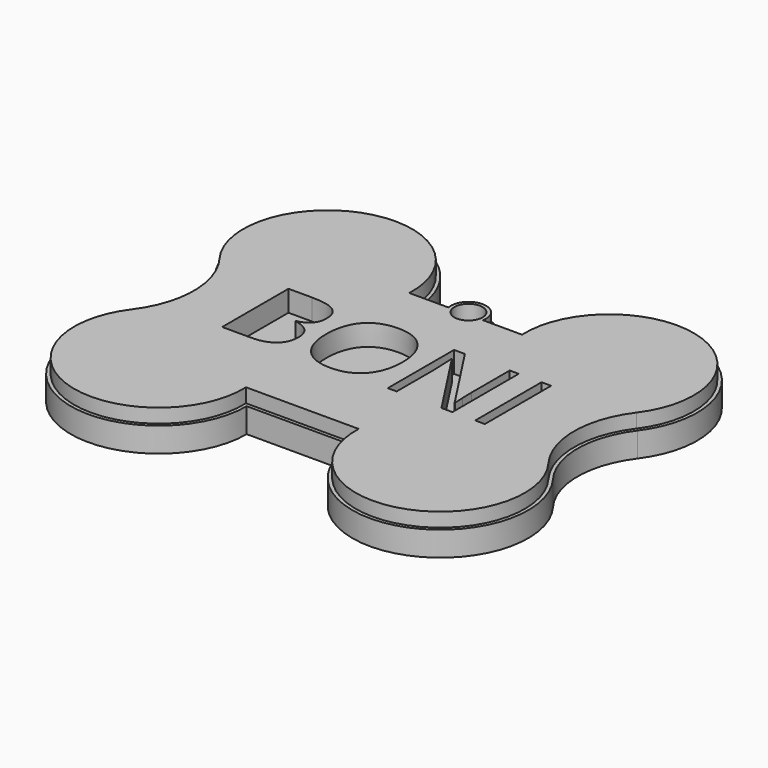
from build123d import *

# Parameters (mm, degrees)
F0_R     = 2
F1_DEPTH = 3.5
F2_R     = 2
F3_DEPTH = 1
F4_W     = 1.3676754668
F4_H     = 11.7681905988
F4_R     = 2
F5_DEPTH = 3


with BuildPart() as f1:
    # F0 (on Top) → F1 (new body)
    with BuildSketch(Plane.XY):
        with BuildLine():
            Line((27, 30), (22.5, 30))
            ThreePointArc((22.5, 30), (6.0471529248, 41.8585412256), (0, 22.5))
            ThreePointArc((0, 22.5), (2.5, 15), (0, 7.5))
            ThreePointArc((0, 7.5), (6.0471529248, -11.8585412256), (22.5, 0))
            Line((22.5, 0), (37.5, 0))
            ThreePointArc((37.5, 0), (53.9528470752, -11.8585412256), (60, 7.5))
            ThreePointArc((60, 7.5), (57.5, 15), (60, 22.5))
            ThreePointArc((60, 22.5), (53.9528470752, 41.8585412256), (37.5, 30))
            Line((37.5, 30), (33, 30))
            ThreePointArc((33, 30), (30, 33), (27, 30))
        make_face()
        with Locations((30, 30)):
            Circle(F0_R, mode=Mode.SUBTRACT)
    extrude(amount=F1_DEPTH)

    # F2 (on face) → F3 (cut)
    with BuildSketch(Plane.XY.offset(3.5)):
        with BuildLine():
            Line((21.9895788083, 0.5), (38.0104211917, 0.5))
            ThreePointArc((38.0104211917, 0.5), (53.5566869022, -11.4608018166), (59.6, 7.2))
            ThreePointArc((59.6, 7.2), (57, 15), (59.6, 22.8))
            ThreePointArc((59.6, 22.8), (53.5566869022, 41.4608018166), (38.0104211917, 29.5))
            Line((38.0104211917, 29.5), (32.4494897428, 29.5))
            ThreePointArc((32.4494897428, 29.5), (30, 32.5), (27.5505102572, 29.5))
            Line((27.5505102572, 29.5), (21.9895788083, 29.5))
            ThreePointArc((21.9895788083, 29.5), (6.4433130978, 41.4608018166), (0.4, 22.8))
            ThreePointArc((0.4, 22.8), (3, 15), (0.4, 7.2))
            ThreePointArc((0.4, 7.2), (6.4433130978, -11.4608018166), (21.9895788083, 0.5))
        make_face()
        with Locations((30, 30)):
            Circle(F2_R, mode=Mode.SUBTRACT)
    extrude(amount=-F3_DEPTH, mode=Mode.SUBTRACT)

    # F4 (on face) → F5 (join)
    with BuildSketch(Plane.XY.offset(2.5)):
        with BuildLine():
            ThreePointArc((0.4, 7.2), (6.4433130978, -11.4608018166), (21.9895788083, 0.5))
            Line((21.9895788083, 0.5), (38.0104211917, 0.5))
            ThreePointArc((38.0104211917, 0.5), (53.5566869022, -11.4608018166), (59.6, 7.2))
            ThreePointArc((59.6, 7.2), (57, 15), (59.6, 22.8))
            ThreePointArc((59.6, 22.8), (53.5566869022, 41.4608018166), (38.0104211917, 29.5))
            Line((38.0104211917, 29.5), (32.4494897428, 29.5))
            ThreePointArc((32.4494897428, 29.5), (30, 32.5), (27.5505102572, 29.5))
            Line((27.5505102572, 29.5), (21.9895788083, 29.5))
            ThreePointArc((21.9895788083, 29.5), (6.4433130978, 41.4608018166), (0.4, 22.8))
            ThreePointArc((0.4, 22.8), (3, 15), (0.4, 7.2))
        make_face()
        with BuildLine():
            Line((10.8878203307, 10.1561439622), (10.8878203307, 21.924334561))
            Line((10.8878203307, 21.924334561), (14.2129974073, 21.924334561))
            add(Edge.make_bspline(
                [(14.2129974073, 21.924334561), (16.554272359, 21.924334561), (17.6012781542, 21.2237550375)],
                knots=[0, 0, 0, 1, 1, 1], degree=2))
            add(Edge.make_bspline(
                [(17.6012781542, 21.2237550375), (18.6482839495, 20.523175514), (18.6482839495, 19.0112630864)],
                knots=[0, 0, 0, 1, 1, 1], degree=2))
            add(Edge.make_bspline(
                [(18.6482839495, 19.0112630864), (18.6482839495, 17.9629694612), (18.0648969566, 17.2829952178)],
                knots=[0, 0, 0, 1, 1, 1], degree=2))
            add(Edge.make_bspline(
                [(18.0648969566, 17.2829952178), (17.4815099636, 16.6030209744), (16.361097858, 16.4021194934)],
                knots=[0, 0, 0, 1, 1, 1], degree=2))
            Line((16.361097858, 16.4021194934), (16.361097858, 16.322274033))
            add(Edge.make_bspline(
                [(16.361097858, 16.322274033), (19.0423599314, 15.8638065507), (19.0423599314, 13.5045019789)],
                knots=[0, 0, 0, 1, 1, 1], degree=2))
            add(Edge.make_bspline(
                [(19.0423599314, 13.5045019789), (19.0423599314, 11.928198051), (17.9760366861, 11.0421710066)],
                knots=[0, 0, 0, 1, 1, 1], degree=2))
            add(Edge.make_bspline(
                [(17.9760366861, 11.0421710066), (16.9097134408, 10.1561439622), (14.9934223912, 10.1561439622)],
                knots=[0, 0, 0, 1, 1, 1], degree=2))
            Line((14.9934223912, 10.1561439622), (10.8878203307, 10.1561439622))
        make_face(mode=Mode.SUBTRACT)
        with BuildLine():
            add(Edge.make_bspline(
                [(30.359810028, 20.4999945739), (31.7841500152, 18.8902070658), (31.7841500152, 16.0569810517)],
                knots=[0, 0, 0, 1, 1, 1], degree=2))
            add(Edge.make_bspline(
                [(31.7841500152, 16.0569810517), (31.7841500152, 13.2314820175), (30.354658708, 11.6126796994)],
                knots=[0, 0, 0, 1, 1, 1], degree=2))
            add(Edge.make_bspline(
                [(30.354658708, 11.6126796994), (28.9251674009, 9.9938773813), (26.3829909681, 9.9938773813)],
                knots=[0, 0, 0, 1, 1, 1], degree=2))
            add(Edge.make_bspline(
                [(26.3829909681, 9.9938773813), (23.7841500152, 9.9938773813), (22.3714004981, 11.5843474393)],
                knots=[0, 0, 0, 1, 1, 1], degree=2))
            add(Edge.make_bspline(
                [(22.3714004981, 11.5843474393), (20.958650981, 13.1748174973), (20.958650981, 16.0724350117)],
                knots=[0, 0, 0, 1, 1, 1], degree=2))
            add(Edge.make_bspline(
                [(20.958650981, 16.0724350117), (20.958650981, 18.9468715861), (22.3752639881, 20.528326834)],
                knots=[0, 0, 0, 1, 1, 1], degree=2))
            add(Edge.make_bspline(
                [(22.3752639881, 20.528326834), (23.7918769952, 22.1097820819), (26.3984449282, 22.1097820819)],
                knots=[0, 0, 0, 1, 1, 1], degree=2))
            add(Edge.make_bspline(
                [(26.3984449282, 22.1097820819), (28.9354700409, 22.1097820819), (30.359810028, 20.4999945739)],
                knots=[0, 0, 0, 1, 1, 1], degree=2))
        make_face(mode=Mode.SUBTRACT)
        with BuildLine():
            Line((43.5987024942, 21.924334561), (43.5987024942, 10.1561439622))
            Line((43.5987024942, 10.1561439622), (42.0378525264, 10.1561439622))
            Line((42.0378525264, 10.1561439622), (35.6064294743, 20.0312244515))
            Line((35.6064294743, 20.0312244515), (35.5420379739, 20.0312244515))
            add(Edge.make_bspline(
                [(35.5420379739, 20.0312244515), (35.6708209746, 18.2926539428), (35.6708209746, 16.8451330156)],
                knots=[0, 0, 0, 1, 1, 1], degree=2))
            Line((35.6708209746, 16.8451330156), (35.6708209746, 10.1561439622))
            Line((35.6708209746, 10.1561439622), (34.4061719083, 10.1561439622))
            Line((34.4061719083, 10.1561439622), (34.4061719083, 21.924334561))
            Line((34.4061719083, 21.924334561), (35.951567916, 21.924334561))
            Line((35.951567916, 21.924334561), (42.3675370081, 12.0878889718))
            Line((42.3675370081, 12.0878889718), (42.4319285084, 12.0878889718))
            add(Edge.make_bspline(
                [(42.4319285084, 12.0878889718), (42.4164745483, 12.3042444129), (42.359810028, 13.4838966988)],
                knots=[0, 0, 0, 1, 1, 1], degree=2))
            add(Edge.make_bspline(
                [(42.359810028, 13.4838966988), (42.3031455078, 14.6635489847), (42.3185994678, 15.1709540072)],
                knots=[0, 0, 0, 1, 1, 1], degree=2))
            Line((42.3185994678, 15.1709540072), (42.3185994678, 21.924334561))
            Line((42.3185994678, 21.924334561), (43.5987024942, 21.924334561))
        make_face(mode=Mode.SUBTRACT)
        with Locations((47.5175692038, 16.0402392616)):
            Rectangle(F4_W, F4_H, mode=Mode.SUBTRACT)
        with Locations((30, 30)):
            Circle(F4_R, mode=Mode.SUBTRACT)
    extrude(amount=F5_DEPTH)


solid = f1.part
